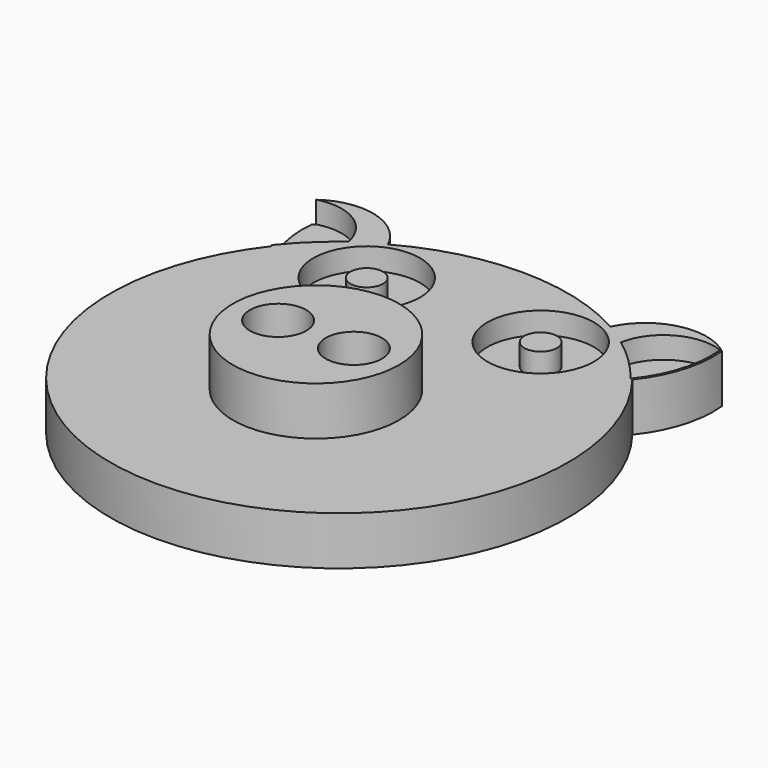
from build123d import *

# Parameters (mm, degrees)
F1_DEPTH = 6.35
F2_R     = 10.8590085074
F2_R_2   = 3.6802492117
F3_DEPTH = 6.35
F4_R     = 6.9693581069
F4_R_2   = 2.1365687552
F5_DEPTH = 2.8448


with BuildPart() as f1:
    # F0 (on Top) → F1 (new body)
    with BuildSketch(Plane.XY):
        with BuildLine():
            ThreePointArc((22.1884083003, 32.5379781425), (15.3640692537, 34.0499493944), (9.9405326157, 29.6405377755))
            ThreePointArc((9.9405326157, 29.6405377755), (-4.6095652506, 33.4153325113), (-19.1596631168, 29.6405377755))
            ThreePointArc((-19.1596631168, 29.6405377755), (-24.5831997549, 34.0499493944), (-31.4075388014, 32.5379781425))
            ThreePointArc((-31.4075388014, 32.5379781425), (-30.8582548555, 26.9031615507), (-28.2005693571, 21.9042037926))
            ThreePointArc((-28.2005693571, 21.9042037926), (-4.6095652506, -26.4433986324), (18.981438856, 21.9042037926))
            ThreePointArc((18.981438856, 21.9042037926), (21.6391243544, 26.9031615507), (22.1884083003, 32.5379781425))
        make_face()
    extrude(amount=F1_DEPTH)

    # F2 (on face) → F3 (join)
    with BuildSketch(Plane.XY.offset(6.35)):
        with Locations((-4.8612458631, 0.0010582291)):
            Circle(F2_R)
        with Locations((-9.8135089502, 0.0010582291)):
            Circle(F2_R_2, mode=Mode.SUBTRACT)
        with Locations((0.0910172239, 0.0010582291)):
            Circle(F2_R_2, mode=Mode.SUBTRACT)
    extrude(amount=F3_DEPTH)

    # F4 (on face) → F5 (cut)
    with BuildSketch(Plane.XY.offset(6.35)):
        with BuildLine():
            ThreePointArc((-31.4075388014, 32.5379781425), (-30.8945224978, 27.0253518282), (-28.359989317, 22.103118985))
            ThreePointArc((-28.359989317, 22.103118985), (-25.7072477965, 25.0367408797), (-22.6908403268, 27.5949552906))
            ThreePointArc((-22.6908403268, 27.5949552906), (-25.7360645395, 32.0302919162), (-31.0613331918, 32.7965263897))
            ThreePointArc((-31.0613331918, 32.7965263897), (-31.2361754941, 32.6695815173), (-31.4075388014, 32.5379781425))
        make_face()
        with Locations((-16.254756134, 22.5346526879)):
            Circle(F4_R)
        with Locations((-16.254756134, 22.5346526879)):
            Circle(F4_R_2, mode=Mode.SUBTRACT)
        with Locations((6.4890854992, 22.5346526879)):
            Circle(F4_R)
        with Locations((6.4890854992, 22.5346526879)):
            Circle(F4_R_2, mode=Mode.SUBTRACT)
        with BuildLine():
            ThreePointArc((12.925169692, 27.5949552906), (16.007657655, 24.9725297062), (18.7081687892, 21.9582159201))
            ThreePointArc((18.7081687892, 21.9582159201), (21.3658542875, 26.9571736782), (21.9151382335, 32.59199027))
            ThreePointArc((21.9151382335, 32.59199027), (16.251635807, 32.1957077064), (12.925169692, 27.5949552906))
        make_face()
    extrude(amount=-F5_DEPTH, mode=Mode.SUBTRACT)


solid = f1.part
